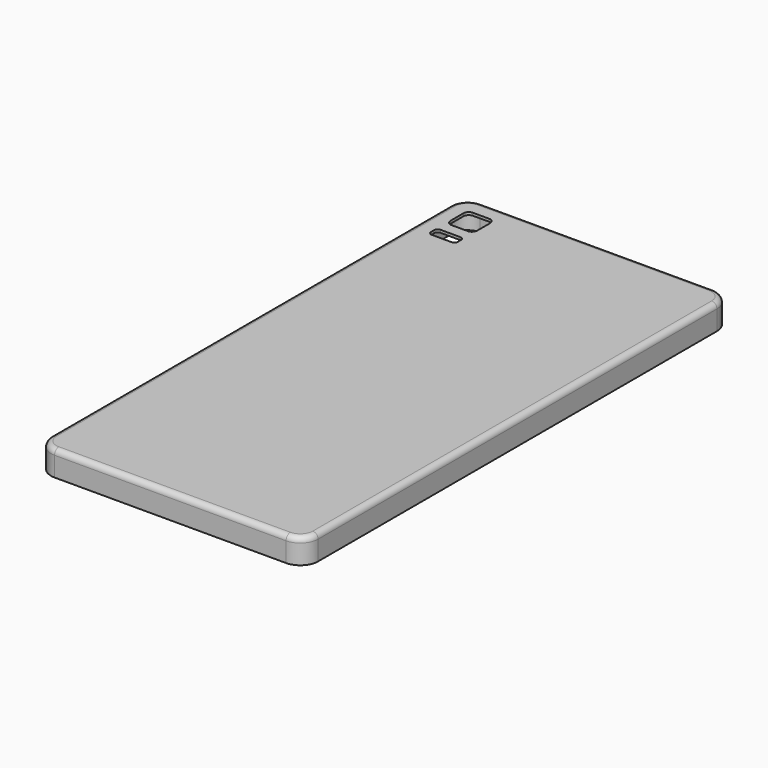
from build123d import *

# Parameters (mm, degrees)
F0_W     = 76.187346
F0_H     = 152.374692
F1_DEPTH = 7.112
F2_R     = 5.08
F3_R     = 1.524
F4_T     = -0.762
F5_W     = 7.632177
F5_H     = 7.64653
F6_DEPTH = 25.4
F7_R     = 1.524
F8_W     = 7.637478
F8_H     = 3.121578
F9_DEPTH = 25.4
F10_R    = 1.016


with BuildPart() as f1:
    # F0 (on Top) → F1 (new body)
    with BuildSketch(Plane.XY):
        with Locations((2.484182, -2.768833)):
            Rectangle(F0_W, F0_H)
    extrude(amount=F1_DEPTH)

    # F2
    f2_edges = [f1.edges().sort_by_distance(p)[0] for p in [
        (40.577855, -78.956179, 3.556),
        (-35.609491, -78.956179, 3.556),
        (-35.609491, 73.418513, 3.556),
        (40.577855, 73.418513, 3.556),
    ]]
    fillet(f2_edges, radius=F2_R)

    # F3
    f3_edges = [f1.edges().sort_by_distance(p)[0] for p in [
        (40.577855, -2.768833, 7.112),
        (-35.609491, -2.768833, 7.112),
    ]]
    fillet(f3_edges, radius=F3_R)

    # F4
    f4_openings = [f1.faces().sort_by_distance(p)[0] for p in [
        (2.484182, -2.768833, 0),
    ]]
    offset(amount=F4_T, openings=f4_openings)

    # F5 (on face) → F6 (cut)
    with BuildSketch(Plane.XY.offset(7.112)):
        with Locations((-26.713403, 64.515248)):
            Rectangle(F5_W, F5_H)
    extrude(amount=-F6_DEPTH, mode=Mode.SUBTRACT)

    # F7
    f7_edges = [f1.edges().sort_by_distance(p)[0] for p in [
        (-22.897314, 60.691983, 6.731),
        (-30.529491, 60.691983, 6.731),
        (-22.897314, 68.338513, 6.731),
        (-30.529491, 68.338513, 6.731),
    ]]
    fillet(f7_edges, radius=F7_R)

    # F8 (on face) → F9 (cut)
    with BuildSketch(Plane.XY.offset(7.112)):
        with Locations((-26.710752, 55.848118)):
            Rectangle(F8_W, F8_H)
    extrude(amount=-F9_DEPTH, mode=Mode.SUBTRACT)

    # F10
    f10_edges = [f1.edges().sort_by_distance(p)[0] for p in [
        (-30.529491, 54.287329, 6.731),
        (-22.892013, 54.287329, 6.731),
        (-30.529491, 57.408907, 6.731),
        (-22.892013, 57.408907, 6.731),
    ]]
    fillet(f10_edges, radius=F10_R)


solid = f1.part
